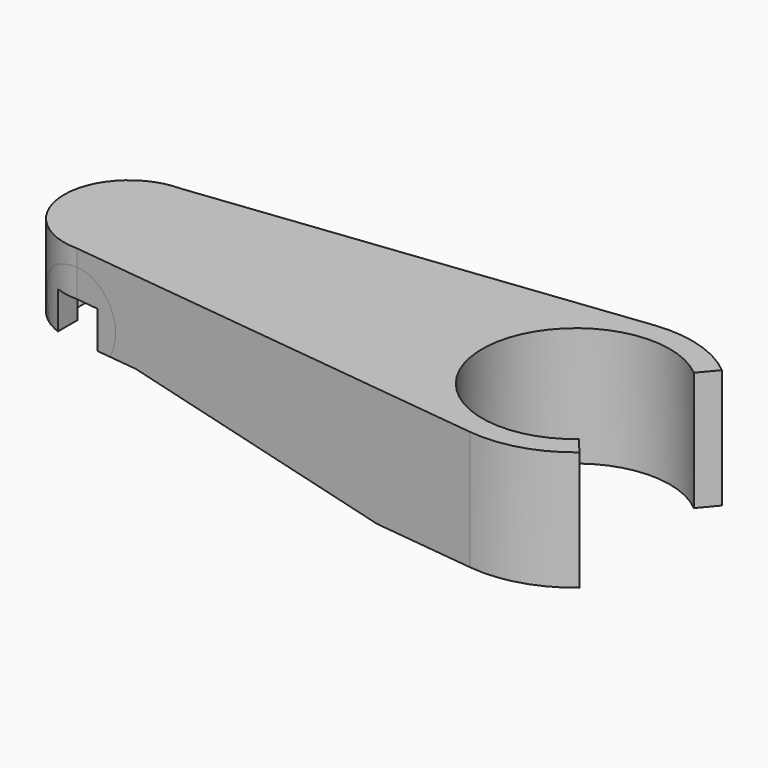
from build123d import *

# Parameters (mm, degrees)
SKETCH_R          = 12.6
PAD_DEPTH         = 16
POCKET_DEPTH      = 20
POCKET_DEPTH_BACK = 20
POCKET001_DEPTH   = 16.001
SKETCH003_R       = 5.7
PAD001_DEPTH      = 11
SKETCH004_W       = 6
SKETCH004_H       = 22.8
POCKET002_DEPTH   = 5


with BuildPart() as part:
    # Sketch → Pad (new body)
    with BuildSketch(Plane.XY):
        with BuildLine():
            ThreePointArc((-30, 8.7), (-38.7, 0), (-30, -8.7))
            Line((-30, -8.7), (28.190735, -15.494727))
            ThreePointArc((28.190735, -15.494727), (45.6, 0), (28.190735, 15.494727))
            Line((-30, 8.7), (28.190735, 15.494727))
        make_face()
        with Locations((30, 0)):
            Circle(SKETCH_R, mode=Mode.SUBTRACT)
    extrude(amount=PAD_DEPTH)

    # Sketch001 → Pocket (cut, two sides)
    with BuildSketch(Plane.XZ) as pocket_sk:
        with BuildLine():
            Line((14.4, 0), (-21.3, 5))
            Line((-21.3, 5), (-25.212, 5))
            ThreePointArc((-25.212, 5), (-30, 13.792742), (-34.788, 5))
            Line((-34.788, 5), (-38.7, 5))
            Line((-38.7, 5), (-38.7, 0))
            Line((-38.7, 0), (14.4, 0))
        make_face()
    extrude(amount=-POCKET_DEPTH, mode=Mode.SUBTRACT)
    extrude(pocket_sk.sketch, amount=POCKET_DEPTH_BACK, mode=Mode.SUBTRACT)

    # Sketch002 (on Face9 of Pocket) → Pocket001 (cut, through all)
    with BuildSketch(Plane(origin=(0, 0, 0), x_dir=(1, 0, 0), z_dir=(0, 0, -1))):
        Polygon((30, 0), (62.76, 39.041848), (62.76, -39.041848), align=None)
    extrude(amount=-POCKET001_DEPTH, mode=Mode.SUBTRACT)

    # Sketch003 (on Face7 of Pocket) → Pad001 (join)
    with BuildSketch(Plane(origin=(0, 0, 5), x_dir=(1, 0, 0), z_dir=(0, 0, -1))):
        with BuildLine():
            ThreePointArc((-30, 8.7), (-38.7, 0), (-30, -8.7))
            Line((-21.3, -9.715868), (-30, -8.7))
            Line((-21.3, 9.715868), (-21.3, -9.715868))
            Line((-30, 8.7), (-21.3, 9.715868))
        make_face()
        with Locations((-30, 0)):
            Circle(SKETCH003_R, mode=Mode.SUBTRACT)
    extrude(amount=-PAD001_DEPTH)

    # Sketch004 (on Face9 of Pad001) → Pocket002 (cut)
    with BuildSketch(Plane(origin=(0, 0, 5), x_dir=(1, 0, 0), z_dir=(0, 0, -1))):
        with Locations((-30, 0)):
            Rectangle(SKETCH004_W, SKETCH004_H)
    extrude(amount=-POCKET002_DEPTH, mode=Mode.SUBTRACT)


solid = part.part
